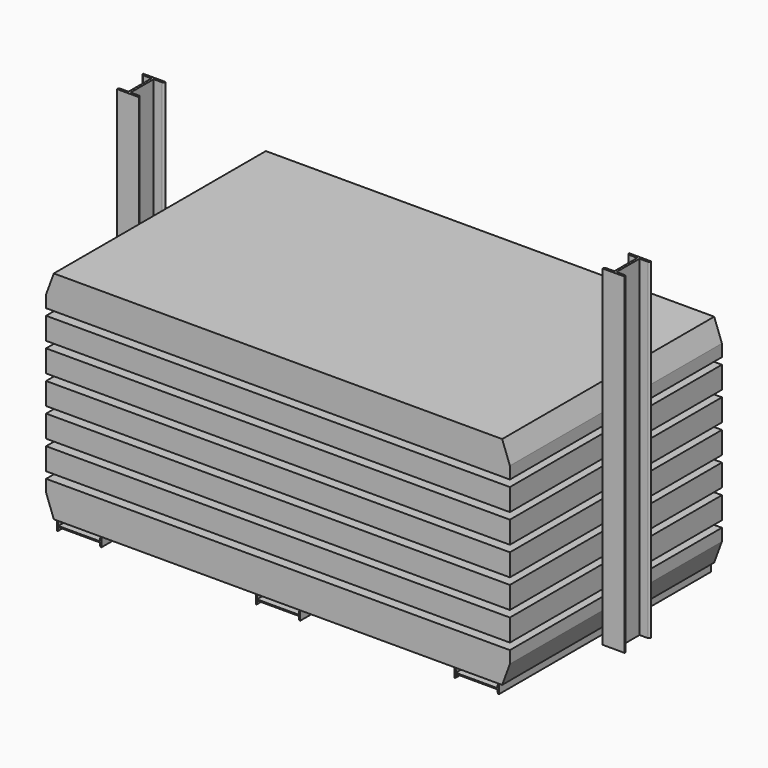
from build123d import *

# Parameters (mm, degrees)
F1_DEPTH = 600
F2_DEPTH = 600
F0_W     = 2100
F0_H     = 100
F5_DEPTH = 1500


with BuildPart() as f1:
    # F0 (on Front) → F1 (new body, symmetric)
    with BuildSketch(Plane.XZ):
        with BuildLine():
            Line((-805, 2.5), (-995, 2.5))
            Line((-995, 2.5), (-995, 15.2391958982))
            ThreePointArc((-995, 15.2391958982), (-996.5479985626, 18.6194305583), (-1000, 20))
            Line((-1000, 20), (-1000, -20))
            ThreePointArc((-1000, -20), (-996.5479985626, -18.6194305583), (-995, -15.2391958982))
            Line((-995, -15.2391958982), (-995, -2.5))
            Line((-995, -2.5), (-805, -2.5))
            Line((-805, -2.5), (-805, -15.2391958982))
            ThreePointArc((-805, -15.2391958982), (-803.4520014374, -18.6194305583), (-800, -20))
            Line((-800, -20), (-800, 20))
            ThreePointArc((-800, 20), (-803.4520014374, 18.6194305583), (-805, 15.2391958982))
            Line((-805, 15.2391958982), (-805, 2.5))
        make_face()
    extrude(amount=F1_DEPTH, both=True)


with BuildPart() as f1b:
    # F0 (on Front) → F1, piece 2 (new body, symmetric)
    with BuildSketch(Plane.XZ):
        with BuildLine():
            ThreePointArc((-95, 15.2391958982), (-96.5479985626, 18.6194305583), (-100, 20))
            Line((-100, 20), (-100, -20))
            ThreePointArc((-100, -20), (-96.5479985626, -18.6194305583), (-95, -15.2391958982))
            Line((-95, -15.2391958982), (-95, -2.5))
            Line((-95, -2.5), (95, -2.5))
            Line((95, -2.5), (95, -15.2391958982))
            ThreePointArc((95, -15.2391958982), (96.5479985626, -18.6194305583), (100, -20))
            Line((100, -20), (100, 20))
            ThreePointArc((100, 20), (96.5479985626, 18.6194305583), (95, 15.2391958982))
            Line((95, 15.2391958982), (95, 2.5))
            Line((95, 2.5), (-95, 2.5))
            Line((-95, 2.5), (-95, 15.2391958982))
        make_face()
    extrude(amount=F1_DEPTH, both=True)


with BuildPart() as f1c:
    # F0 (on Front) → F1, piece 3 (new body, symmetric)
    with BuildSketch(Plane.XZ):
        with BuildLine():
            Line((995, 2.5), (805, 2.5))
            Line((805, 2.5), (805, 15.2391958982))
            ThreePointArc((805, 15.2391958982), (803.4520014374, 18.6194305583), (800, 20))
            Line((800, 20), (800, -20))
            ThreePointArc((800, -20), (803.4520014374, -18.6194305583), (805, -15.2391958982))
            Line((805, -15.2391958982), (805, -2.5))
            Line((805, -2.5), (995, -2.5))
            Line((995, -2.5), (995, -15.2391958982))
            ThreePointArc((995, -15.2391958982), (996.5479985626, -18.6194305583), (1000, -20))
            Line((1000, -20), (1000, 20))
            ThreePointArc((1000, 20), (996.5479985626, 18.6194305583), (995, 15.2391958982))
            Line((995, 15.2391958982), (995, 2.5))
        make_face()
    extrude(amount=F1_DEPTH, both=True)


with BuildPart() as f2:
    # F0 (on Front) → F2 (new body, symmetric)
    with BuildSketch(Plane.XZ):
        Polygon((-1050, 117.2282844782), (-1015, 22.2282844782), (1015, 22.2282844782), (1050, 117.2282844782), (1050, 172.2282844782), (-1050, 172.2282844782), align=None)
    extrude(amount=F2_DEPTH, both=True)


with BuildPart() as f2b:
    # F0 (on Front) → F2, piece 2 (new body, symmetric)
    with BuildSketch(Plane.XZ):
        with Locations((0, 252.2282844782)):
            Rectangle(F0_W, F0_H)
    extrude(amount=F2_DEPTH, both=True)


with BuildPart() as f2c:
    # F0 (on Front) → F2, piece 3 (new body, symmetric)
    with BuildSketch(Plane.XZ):
        with Locations((0, 382.2282844782)):
            Rectangle(F0_W, F0_H)
    extrude(amount=F2_DEPTH, both=True)


with BuildPart() as f2d:
    # F0 (on Front) → F2, piece 4 (new body, symmetric)
    with BuildSketch(Plane.XZ):
        with Locations((0, 512.2282844782)):
            Rectangle(F0_W, F0_H)
    extrude(amount=F2_DEPTH, both=True)


with BuildPart() as f2e:
    # F0 (on Front) → F2, piece 5 (new body, symmetric)
    with BuildSketch(Plane.XZ):
        with Locations((0, 642.2282844782)):
            Rectangle(F0_W, F0_H)
    extrude(amount=F2_DEPTH, both=True)


with BuildPart() as f2f:
    # F0 (on Front) → F2, piece 6 (new body, symmetric)
    with BuildSketch(Plane.XZ):
        with Locations((0, 772.2282844782)):
            Rectangle(F0_W, F0_H)
    extrude(amount=F2_DEPTH, both=True)


with BuildPart() as f2g:
    # F0 (on Front) → F2, piece 7 (new body, symmetric)
    with BuildSketch(Plane.XZ):
        Polygon((-1015, 1002.2282844782), (-1050, 907.2282844782), (-1050, 852.2282844782), (1050, 852.2282844782), (1050, 907.2282844782), (1015, 1002.2282844782), align=None)
    extrude(amount=F2_DEPTH, both=True)


with BuildPart() as f5:
    # F4 (on 3pt) → F5 (new body)
    with BuildSketch(Plane.XY.offset(-20)):
        with BuildLine():
            ThreePointArc((1056.8763880603, -65), (1051.8849866554, -68.9319543353), (1050, -75))
            Line((1050, -75), (1150, -75))
            ThreePointArc((1150, -75), (1148.1150133446, -68.9319543353), (1143.1236119397, -65))
            Line((1143.1236119397, -65), (1105, -65))
            Line((1105, -65), (1105, 65))
            Line((1105, 65), (1143.1236119397, 65))
            ThreePointArc((1143.1236119397, 65), (1148.1150133446, 68.9319543353), (1150, 75))
            Line((1150, 75), (1050, 75))
            ThreePointArc((1050, 75), (1051.8849866554, 68.9319543353), (1056.8763880603, 65))
            Line((1056.8763880603, 65), (1095, 65))
            Line((1095, 65), (1095, -65))
            Line((1095, -65), (1056.8763880603, -65))
        make_face()
    extrude(amount=F5_DEPTH)


with BuildPart() as f5b:
    # F4 (on 3pt) → F5, piece 2 (new body)
    with BuildSketch(Plane.XY.offset(-20)):
        with BuildLine():
            ThreePointArc((-1050, -75), (-1051.8849866554, -68.9319543353), (-1056.8763880603, -65))
            Line((-1056.8763880603, -65), (-1095, -65))
            Line((-1095, -65), (-1095, 65))
            Line((-1095, 65), (-1056.8763880603, 65))
            ThreePointArc((-1056.8763880603, 65), (-1051.8849866554, 68.9319543353), (-1050, 75))
            Line((-1050, 75), (-1150, 75))
            ThreePointArc((-1150, 75), (-1148.1150133446, 68.9319543353), (-1143.1236119397, 65))
            Line((-1143.1236119397, 65), (-1105, 65))
            Line((-1105, 65), (-1105, -65))
            Line((-1105, -65), (-1143.1236119397, -65))
            ThreePointArc((-1143.1236119397, -65), (-1148.1150133446, -68.9319543353), (-1150, -75))
            Line((-1150, -75), (-1050, -75))
        make_face()
    extrude(amount=F5_DEPTH)


solid = Compound([f1.part, f1b.part, f1c.part, f2.part, f2b.part, f2c.part, f2d.part, f2e.part, f2f.part, f2g.part, f5.part, f5b.part])
